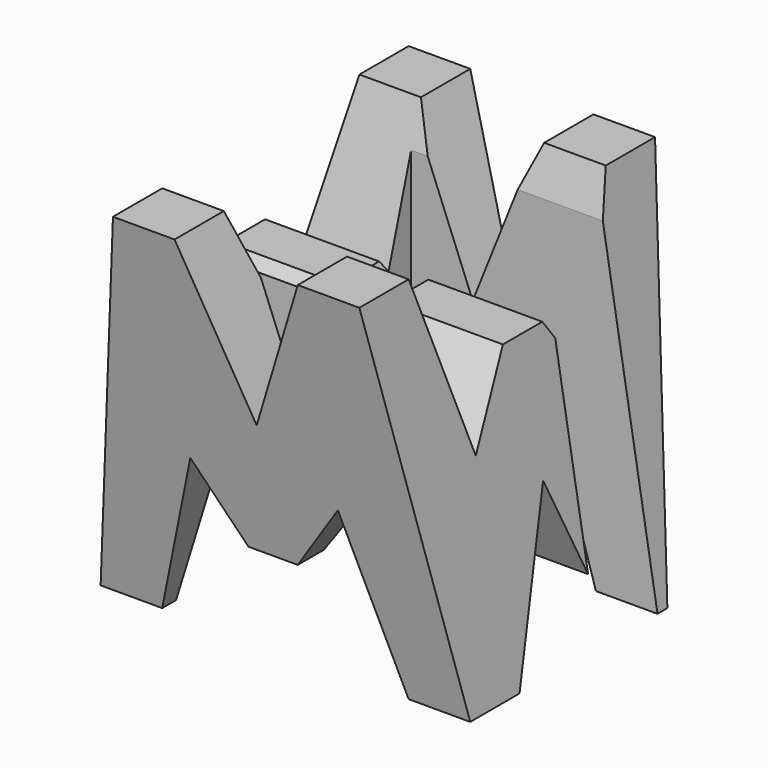
from build123d import *

# Parameters (mm, degrees)
F0_W      = 38.1
F0_H      = 38.1
F2_DEPTH  = 38.1
F6_DEPTH  = 38.1
F8_DEPTH  = 38.1
F9_W      = 25.4
F9_H      = 7.62
F10_DEPTH = 38.1


with BuildPart() as f2:
    # F0 (on Front) → F2 (new body)
    with BuildSketch(Plane.XZ):
        with Locations((19.05, 19.05)):
            Rectangle(F0_W, F0_H)
    extrude(amount=F2_DEPTH)

    # F5 (on offset) → F6 (cut)
    with BuildSketch(Plane.YZ.offset(38.1)):
        Polygon((-6.35, 38.1), (-31.75, 38.1), (-26.67, 20.955), (-21.59, 28.575), (-16.51, 28.575), (-11.43, 20.955), align=None)
        Polygon((0, 0), (0, 38.1), (-6.35, 0), align=None)
        Polygon((-19.05, 15.875), (-25.4, 0), (-12.7, 0), align=None)
        Polygon((-31.75, 0), (-38.1, 38.1), (-38.1, 0), align=None)
    extrude(amount=-F6_DEPTH, mode=Mode.SUBTRACT)

    # F7 (on offset) → F8 (cut)
    with BuildSketch(Plane.XZ.offset(38.1)):
        Polygon((0, 38.1), (0, 0), (6.35, 38.1), align=None)
        Polygon((11.43, 16.402483), (6.35, 0), (31.75, 0), (26.67, 16.627173), (21.59, 9.525), (16.51, 9.525), align=None)
        Polygon((25.4, 38.1), (12.7, 38.1), (19.05, 22.225), align=None)
        Polygon((31.75, 38.1), (38.1, 0), (38.1, 38.1), align=None)
    extrude(amount=-F8_DEPTH, mode=Mode.SUBTRACT)

    # F9 (on offset) → F10 (cut)
    with BuildSketch(Plane.XY.offset(38.1)):
        with Locations((25.4, -11.43)):
            Rectangle(F9_W, F9_H)
        Polygon((25.4, -22.352), (0, -22.352), (0, -29.972), (1.777999, -29.972), (25.4, -29.972), align=None)
    extrude(amount=-F10_DEPTH, mode=Mode.SUBTRACT)


solid = f2.part
